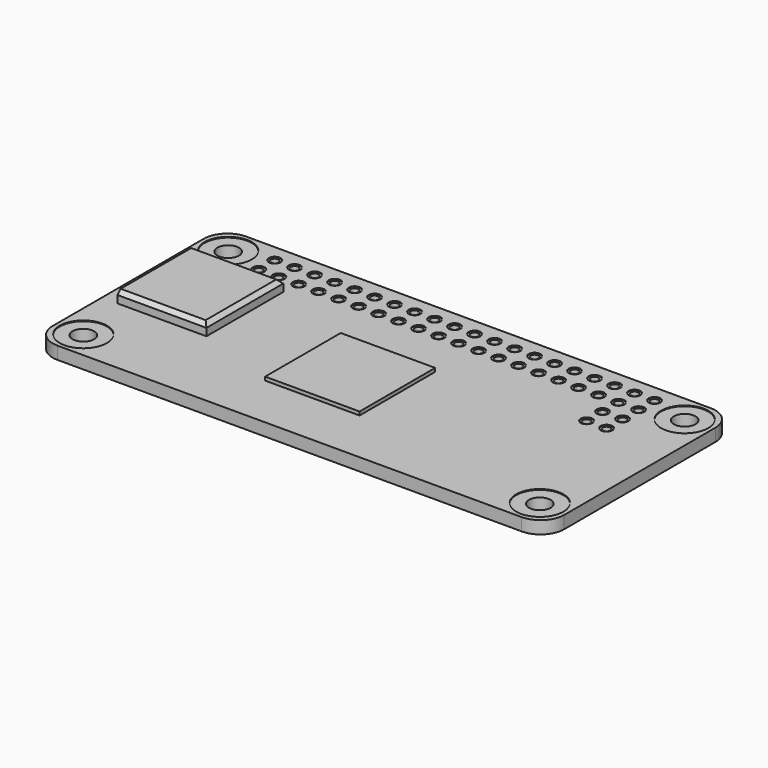
from build123d import *

# Parameters (mm, degrees)
F1_DEPTH       = 1.6
F2_D           = 2.75
F2_CBORE_D     = 6
F2_CBORE_DEPTH = 0.1
F3_D           = 1
F3_CBORE_D     = 1.5
F3_CBORE_DEPTH = 0.1
F4_W           = 12
F4_H           = 12
F5_DEPTH       = 0.45
F4_W_2         = 11.3
F4_H_2         = 12.2
F6_DEPTH       = 1.44
F7_R           = 0.9
F8_DEPTH       = 0.1
F9_DEPTH       = 0.1
F10_SIZE       = 0.5


with BuildPart() as f1:
    # F0 (on Top) → F1 (new body)
    with BuildSketch(Plane.XY):
        with BuildLine():
            Line((29.5, 15), (-29.5, 15))
            ThreePointArc((-29.5, 15), (-31.62132, 14.12132), (-32.5, 12))
            Line((-32.5, 12), (-32.5, -12))
            ThreePointArc((-32.5, -12), (-31.62132, -14.12132), (-29.5, -15))
            Line((-29.5, -15), (29.5, -15))
            ThreePointArc((29.5, -15), (31.62132, -14.12132), (32.5, -12))
            Line((32.5, -12), (32.5, 12))
            ThreePointArc((32.5, 12), (31.62132, 14.12132), (29.5, 15))
        make_face()
    extrude(amount=-F1_DEPTH)

    # F2 (through all)
    with Locations(Plane.XY):
        with Locations((-29, -11.5), (-29, 11.5), (29, 11.5), (29, -11.5)):
            CounterBoreHole(F2_D / 2, F2_CBORE_D / 2, F2_CBORE_DEPTH)

    # F3 (through all)
    with Locations(Plane.XY):
        with Locations((-24.13, 12.80457), (-21.59, 12.80457), (-24.13, 10.26457), (-21.59, 10.26457), (-19.05, 10.26457), (-19.05, 12.80457), (-16.51, 12.80457), (-16.51, 10.26457), (-13.97, 10.26457), (-13.97, 12.80457), (-11.43, 12.80457), (-11.43, 10.26457), (-8.89, 10.26457), (-8.89, 12.80457), (-6.35, 12.80457), (-6.35, 10.26457), (-3.81, 12.80457), (-3.81, 10.26457), (-1.27, 12.80457), (-1.27, 10.26457), (1.27, 12.80457), (1.27, 10.26457), (3.81, 12.80457), (3.81, 10.26457), (6.35, 12.80457), (6.35, 10.26457), (8.89, 12.80457), (8.89, 10.26457), (11.43, 12.80457), (11.43, 10.26457), (13.97, 12.80457), (13.97, 10.26457), (16.51, 12.80457), (16.51, 10.26457), (19.05, 12.80457), (19.05, 10.26457), (21.59, 12.80457), (21.59, 10.26457), (24.13, 12.80457), (24.13, 10.26457), (21.59, 7.72457), (24.13, 7.72457), (24.13, 5.18457), (21.59, 5.18457)):
            CounterBoreHole(F3_D / 2, F3_CBORE_D / 2, F3_CBORE_DEPTH)

    # F4 (on face) → F5 (join)
    with BuildSketch(Plane.XY):
        with Locations((-2.7, -2)):
            Rectangle(F4_W, F4_H)
    extrude(amount=F5_DEPTH)

    # F4 (on face) → F6 (join)
    with BuildSketch(Plane.XY):
        with Locations((-24.85, 1.9)):
            Rectangle(F4_W_2, F4_H_2)
    extrude(amount=F6_DEPTH)

    # F7 (on face) → F8 (cut)
    with BuildSketch(Plane(origin=(0, 0, -1.6), x_dir=(1, 0, 0), z_dir=(0, 0, -1))):
        with Locations((25.062149, 5.849169)):
            Circle(F7_R)
        with Locations((25.376618, 0.458033)):
            Circle(F7_R)
        with Locations((-23.516867, -7.848041)):
            Circle(F7_R)
        with Locations((22, 12.75)):
            Circle(F7_R)
    extrude(amount=-F8_DEPTH, mode=Mode.SUBTRACT)

    # F7 (on face) → F9 (cut)
    with BuildSketch(Plane(origin=(0, 0, -1.6), x_dir=(1, 0, 0), z_dir=(0, 0, -1))):
        with Locations((23.118142, 0.422924)):
            Circle(F7_R)
        with Locations((27.381651, 5.839211)):
            Circle(F7_R)
        with Locations((9.75, 13)):
            Circle(F7_R)
        with Locations((22, 10.5)):
            Circle(F7_R)
        with Locations((7.75, 13)):
            Circle(F7_R)
    extrude(amount=-F9_DEPTH, mode=Mode.SUBTRACT)

    # F10
    f10_edges = [f1.edges().sort_by_distance(p)[0] for p in [
        (-24.85, -4.2, 1.44),
        (-24.85, 8, 1.44),
        (-19.2, 1.9, 1.44),
    ]]
    chamfer(f10_edges, length=F10_SIZE)


solid = f1.part
